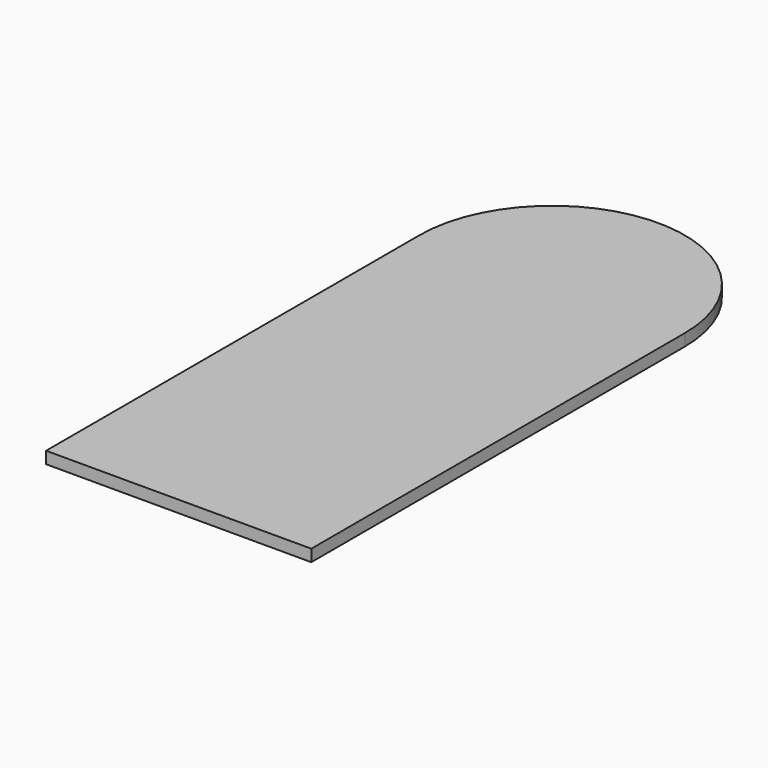
from build123d import *

# Parameters (mm, degrees)
F1_DEPTH = 1


with BuildPart() as f1:
    # F0 (on Top) → F1 (new body)
    with BuildSketch(Plane.XY):
        with BuildLine():
            Line((-55.986977237, -19.8926702092), (-33.7175389616, -19.8926702092))
            ThreePointArc((-33.7175389616, -19.8926702092), (-44.8522580993, -8.7579510716), (-55.986977237, -19.8926702092))
        make_face()
        with BuildLine():
            Line((-33.7175389616, -59.0886585414), (-33.7175389616, -19.8926702092))
            ThreePointArc((-33.7175389616, -19.8926702092), (-44.8522580993, -31.0273893469), (-55.986977237, -19.8926702092))
            Line((-55.986977237, -19.8926702092), (-55.986977237, -59.0886585414))
            Line((-55.986977237, -59.0886585414), (-33.7175389616, -59.0886585414))
        make_face()
        with BuildLine():
            ThreePointArc((-55.986977237, -19.8926702092), (-44.8522580993, -31.0273893469), (-33.7175389616, -19.8926702092))
            Line((-33.7175389616, -19.8926702092), (-55.986977237, -19.8926702092))
        make_face()
    extrude(amount=F1_DEPTH)


solid = f1.part
